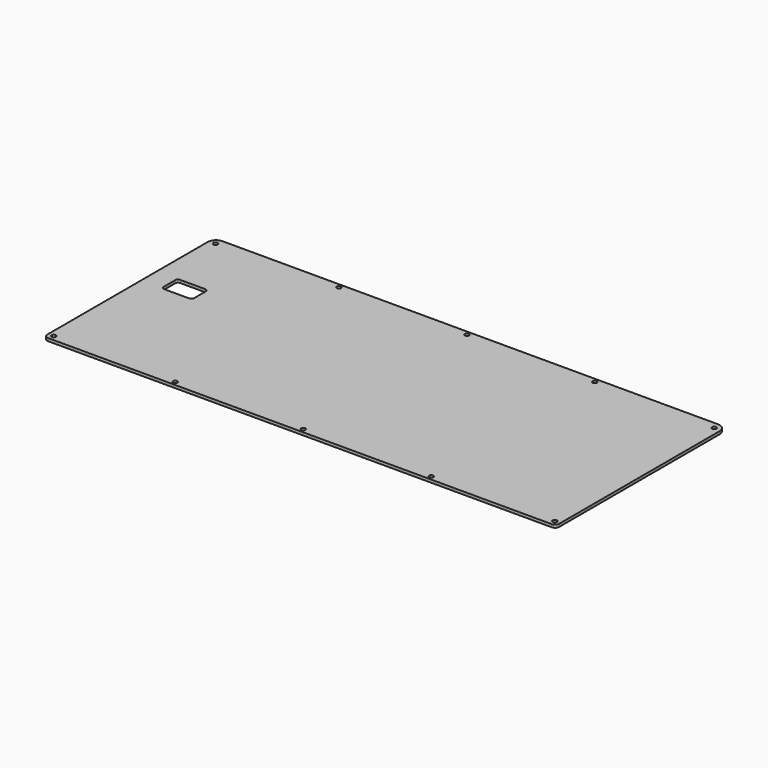
from build123d import *

# Parameters (mm, degrees)
SKETCH076_R     = 1.55
PAD015_DEPTH    = 2
POCKET060_DEPTH = 5
SKETCH078_R     = 1.55
POCKET061_DEPTH = 1
SKETCH079_R     = 4.05
POCKET062_DEPTH = 1


with BuildPart() as part:
    # Sketch076 → Pad015 (new body)
    with BuildSketch(Plane.XY.offset(2.9)):
        with BuildLine():
            Line((-6.5, 0.5), (-6.5, -142.5))
            ThreePointArc((-6.5, -142.5), (-5.62132, -144.62132), (-3.5, -145.5))
            Line((-3.5, -145.5), (355.925, -145.5))
            ThreePointArc((355.925, -145.5), (358.04632, -144.62132), (358.925, -142.5))
            Line((358.925, -142.5), (358.925, 0.5))
            ThreePointArc((358.925, 0.5), (357.167641, 4.742641), (352.925, 6.5))
            Line((352.925, 6.5), (-0.5, 6.5))
            ThreePointArc((-0.5, 6.5), (-4.742641, 4.742641), (-6.5, 0.5))
        make_face()
        with Locations((-1.742592, 1.742608)):
            Circle(SKETCH076_R, mode=Mode.SUBTRACT)
        with Locations((354.167592, 1.742608)):
            Circle(SKETCH076_R, mode=Mode.SUBTRACT)
        with Locations((84.85625, 3.5)):
            Circle(SKETCH076_R, mode=Mode.SUBTRACT)
        with Locations((176.2125, 3.5)):
            Circle(SKETCH076_R, mode=Mode.SUBTRACT)
        with Locations((267.56875, 3.5)):
            Circle(SKETCH076_R, mode=Mode.SUBTRACT)
        with Locations((84.85625, -142.5)):
            Circle(SKETCH076_R, mode=Mode.SUBTRACT)
        with Locations((176.2125, -142.5)):
            Circle(SKETCH076_R, mode=Mode.SUBTRACT)
        with Locations((267.56875, -142.5)):
            Circle(SKETCH076_R, mode=Mode.SUBTRACT)
        with Locations((-2.621271, -141.621287)):
            Circle(SKETCH076_R, mode=Mode.SUBTRACT)
        with Locations((355.046623, -141.621325)):
            Circle(SKETCH076_R, mode=Mode.SUBTRACT)
    extrude(amount=PAD015_DEPTH)

    # Sketch077 → Pocket060 (cut)
    with BuildSketch(Plane.XY.offset(6)):
        with BuildLine():
            Line((8.160893, -46.667019), (8.160893, -57.005055))
            ThreePointArc((8.160893, -57.005055), (8.74668, -58.419268), (10.160893, -59.005055))
            Line((10.160893, -59.005055), (27.939107, -59.005055))
            ThreePointArc((27.939107, -59.005055), (29.35332, -58.419268), (29.939107, -57.005055))
            Line((29.939107, -57.005055), (29.939107, -46.667019))
            ThreePointArc((29.939107, -46.667019), (29.35332, -45.252805), (27.939107, -44.667019))
            Line((27.939107, -44.667019), (10.160893, -44.667019))
            ThreePointArc((10.160893, -44.667019), (8.74668, -45.252805), (8.160893, -46.667019))
        make_face()
    extrude(amount=-POCKET060_DEPTH, mode=Mode.SUBTRACT)

    # Sketch078 → Pocket061 (cut)
    with BuildSketch(Plane.XY.offset(6)):
        with Locations((84.85625, -142.5)):
            Circle(SKETCH078_R)
        with Locations((176.2125, -142.5)):
            Circle(SKETCH078_R)
        with Locations((267.56875, -142.5)):
            Circle(SKETCH078_R)
        with Locations((-2.621271, -141.621287)):
            Circle(SKETCH078_R)
        with Locations((355.046623, -141.621325)):
            Circle(SKETCH078_R)
    extrude(amount=-POCKET061_DEPTH, mode=Mode.SUBTRACT)

    # Sketch079 → Pocket062 (cut)
    with BuildSketch(Plane.XY.offset(2.9)):
        with Locations((5.011405, -127.899292)):
            Circle(SKETCH079_R)
        with Locations((347.413595, -127.899292)):
            Circle(SKETCH079_R)
    extrude(amount=-POCKET062_DEPTH, mode=Mode.SUBTRACT)


with BuildPart() as part_1:
    # Body015 placement: moved
    add(part.part.moved(Location((0, 0, -6))))


solid = part_1.part
